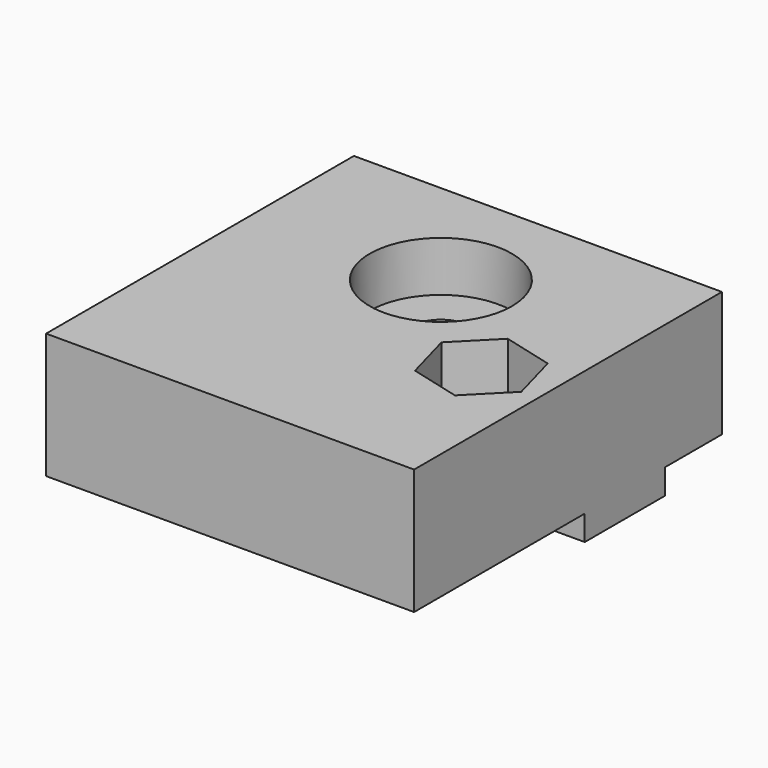
from build123d import *

# Parameters (mm, degrees)
F0_W     = 22
F0_H     = 23
F1_DEPTH = 4.5
F2_R     = 1.75
F3_DEPTH = 4.501
F4_W     = 22
F4_H     = 6
F4_R     = 1.75
F5_DEPTH = 1.5
F2_W     = 22
F2_H     = 23
F2_R_2   = 4.25
F2_R_3   = 1.5
F6_DEPTH = 3
F7_R     = 1.5
F8_DEPTH = 3
F9_DEPTH = 9.001


with BuildPart() as f1:
    # F0 (on Top) → F1 (new body)
    with BuildSketch(Plane.XY):
        with Locations((1.9347620532, -2.93618536)):
            Rectangle(F0_W, F0_H)
    extrude(amount=F1_DEPTH)

    # F2 (on face) → F3 (cut, through all)
    with BuildSketch(Plane.XY.offset(4.5)):
        with Locations((1.9347620532, 1.31381464)):
            Circle(F2_R)
    extrude(amount=-F3_DEPTH, mode=Mode.SUBTRACT)

    # F4 (on face) → F5 (join)
    with BuildSketch(Plane(origin=(0, 0, 0), x_dir=(1, 0, 0), z_dir=(0, 0, -1))):
        with Locations((1.9347620532, -1.31381464)):
            Rectangle(F4_W, F4_H)
        with Locations((1.9347620532, -1.31381464)):
            Circle(F4_R, mode=Mode.SUBTRACT)
    extrude(amount=F5_DEPTH)

    # F2 (on face) → F6 (join)
    with BuildSketch(Plane.XY.offset(4.5)):
        with Locations((1.9347620532, -2.93618536)):
            Rectangle(F2_W, F2_H)
        Polygon((-5.8697039075, -7.3919604017), (-8.0607315208, -5.1739888063), (-7.235425581, -2.1675174351), (-4.2190920279, -1.3790176593), (-2.0280644146, -3.5969892546), (-2.8533703544, -6.6034606258), align=None, mode=Mode.SUBTRACT)
        with Locations((1.9347620532, 1.31381464)):
            Circle(F2_R_2, mode=Mode.SUBTRACT)
        Polygon((-7.235425581, -2.1675174351), (-8.0607315208, -5.1739888063), (-5.8697039075, -7.3919604017), (-2.8533703544, -6.6034606258), (-2.0280644146, -3.5969892546), (-4.2190920279, -1.3790176593), align=None)
        with Locations((-5.0443979677, -4.3854890305)):
            Circle(F2_R_3, mode=Mode.SUBTRACT)
        with Locations((-5.0443979677, -4.3854890305)):
            Circle(F2_R_3)
    extrude(amount=F6_DEPTH)

    # F7 (on face) → F8 (cut)
    with BuildSketch(Plane.XY.offset(7.5)):
        Polygon((8.0886161343, -1.3790176593), (5.897588521, -3.5969892546), (6.7228944608, -6.6034606258), (9.7392280139, -7.3919604017), (11.9302556272, -5.1739888063), (11.1049496874, -2.1675174351), align=None)
        with Locations((8.9139220741, -4.3854890305)):
            Circle(F7_R, mode=Mode.SUBTRACT)
    extrude(amount=-F8_DEPTH, mode=Mode.SUBTRACT)

    # F9 (cut, through all): a face of the model
    f9_faces = [f1.faces().sort_by_distance(p)[0] for p in [
        (8.9139220741, -4.3854890305, 7.5),
    ]]
    extrude(f9_faces, amount=-F9_DEPTH, mode=Mode.SUBTRACT)


solid = f1.part
